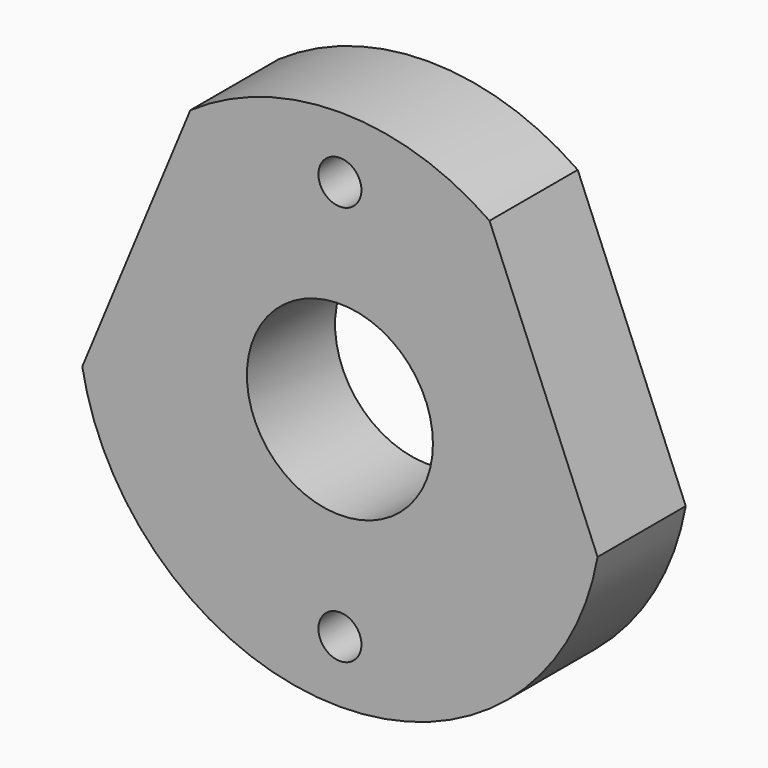
from build123d import *

# Parameters (mm, degrees)
F0_R     = 4.953
F0_R_2   = 21.4376
F1_DEPTH = 12.7


with BuildPart() as f1:
    # F0 (on Front) → F1 (new body, symmetric)
    with BuildSketch(Plane.XZ):
        with BuildLine():
            Line((59.3833293236, -10.6172418004), (34.4828311796, 49.4978785287))
            ThreePointArc((34.4828311796, 49.4978785287), (0, 60.325), (-34.4828311796, 49.4978785287))
            Line((-34.4828311796, 49.4978785287), (-59.3833293236, -10.6172418004))
            ThreePointArc((-59.3833293236, -10.6172418004), (0, -60.325), (59.3833293236, -10.6172418004))
        make_face()
        with Locations((0, -46.101)):
            Circle(F0_R, mode=Mode.SUBTRACT)
        Circle(F0_R_2, mode=Mode.SUBTRACT)
        with Locations((0, 46.101)):
            Circle(F0_R, mode=Mode.SUBTRACT)
    extrude(amount=F1_DEPTH, both=True)


solid = f1.part
